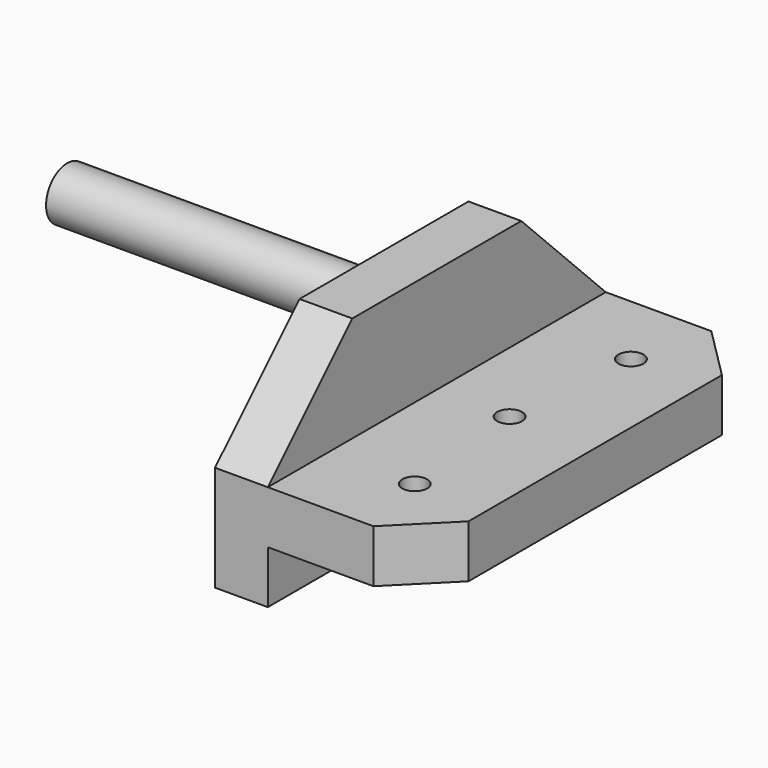
from build123d import *

# Parameters (mm, degrees)
F0_R     = 12.7
F1_DEPTH = 152.4
F2_W     = 203.2
F2_H     = 101.6
F3_DEPTH = 25.4
F4_SIZE  = 50.8
F5_W     = 203.2
F5_H     = 25.4
F6_DEPTH = 76.2
F7_SIZE  = 25.4
F8_R     = 6
F9_DEPTH = 76.201


with BuildPart() as f1:
    # F0 (on Right) → F1 (new body)
    with BuildSketch(Plane.YZ):
        Circle(F0_R)
    extrude(amount=F1_DEPTH)

    # F2 (on face) → F3 (join)
    with BuildSketch(Plane.YZ.offset(152.4)):
        with Locations((0, -25.4)):
            Rectangle(F2_W, F2_H)
    extrude(amount=F3_DEPTH)

    # F4
    f4_edges = [f1.edges().sort_by_distance(p)[0] for p in [
        (165.1, 101.6, 25.4),
        (165.1, -101.6, 25.4),
    ]]
    chamfer(f4_edges, length=F4_SIZE)

    # F5 (on face) → F6 (join)
    with BuildSketch(Plane.YZ.offset(177.8)):
        with Locations((0, -38.1)):
            Rectangle(F5_W, F5_H)
    extrude(amount=F6_DEPTH)

    # F7
    f7_edges = [f1.edges().sort_by_distance(p)[0] for p in [
        (254, -101.6, -38.1),
        (254, 101.6, -38.1),
    ]]
    chamfer(f7_edges, length=F7_SIZE)

    # F8 (on face) → F9 (cut, through all)
    with BuildSketch(Plane(origin=(0, 0, -50.8), x_dir=(1, 0, 0), z_dir=(0, 0, -1))):
        with Locations((219.188081, 65)):
            Circle(F8_R)
        with Locations((212.821616, 0)):
            Circle(F8_R)
        with Locations((219.188081, -65)):
            Circle(F8_R)
    extrude(amount=-F9_DEPTH, mode=Mode.SUBTRACT)


solid = f1.part
